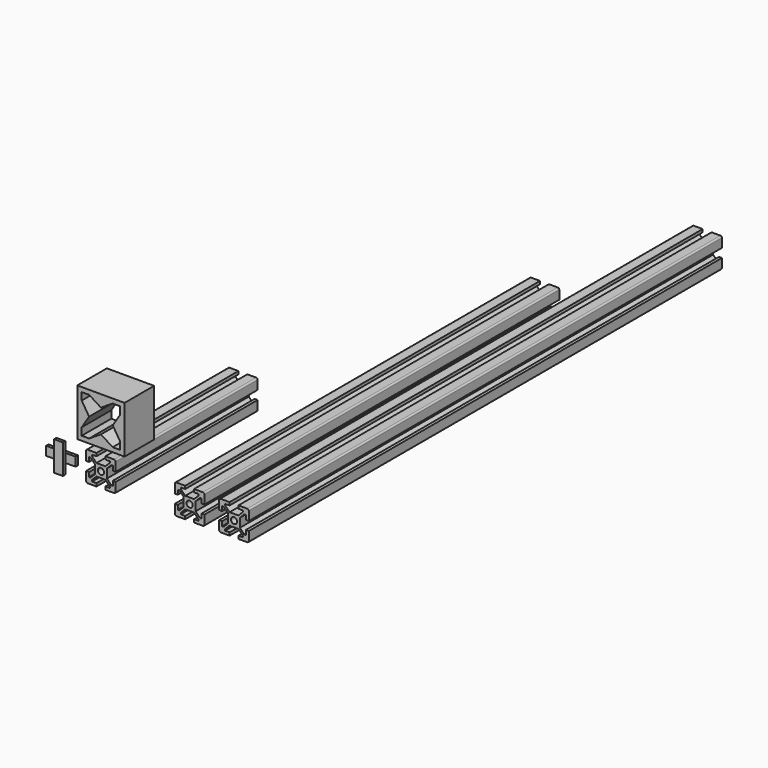
from build123d import *

# Parameters (mm, degrees)
F0_R      = 2.1
F1_DEPTH  = 120
F3_DEPTH  = 300
F4_DEPTH  = 400
F7_W      = 6
F7_H      = 7
F7_H_2    = 6
F8_DEPTH  = 2
F7_W_2    = 7
F9_DEPTH  = 2
F2_W      = 32
F2_H      = 32
F11_DEPTH = 25


with BuildPart() as f1:
    # F0 (on Front) → F1 (new body)
    with BuildSketch(Plane.XZ):
        with BuildLine():
            Line((3, 4), (0, 4))
            Line((0, 4), (-3, 4))
            Line((-3, 4), (-6, 7))
            Line((-6, 7), (-6, 8))
            Line((-6, 8), (-3, 8))
            Line((-3, 8), (-3, 10))
            Line((-3, 10), (-9, 10))
            ThreePointArc((-9, 10), (-9.7071067812, 9.7071067812), (-10, 9))
            Line((-10, 9), (-10, 3))
            Line((-10, 3), (-8, 3))
            Line((-8, 3), (-8, 6))
            Line((-8, 6), (-7, 6))
            Line((-7, 6), (-4, 3))
            Line((-4, 3), (-4, 0))
            Line((-4, 0), (-4, -3))
            Line((-4, -3), (-7, -6))
            Line((-7, -6), (-8, -6))
            Line((-8, -6), (-8, -3))
            Line((-8, -3), (-10, -3))
            Line((-10, -3), (-10, -9))
            ThreePointArc((-10, -9), (-9.7071067812, -9.7071067812), (-9, -10))
            Line((-9, -10), (-3, -10))
            Line((-3, -10), (-3, -8))
            Line((-3, -8), (-6, -8))
            Line((-6, -8), (-6, -7))
            Line((-6, -7), (-3, -4))
            Line((-3, -4), (0, -4))
            Line((0, -4), (3, -4))
            Line((3, -4), (6, -7))
            Line((6, -7), (6, -8))
            Line((6, -8), (3, -8))
            Line((3, -8), (3, -10))
            Line((3, -10), (9, -10))
            ThreePointArc((9, -10), (9.7071067812, -9.7071067812), (10, -9))
            Line((10, -9), (10, -3))
            Line((10, -3), (8, -3))
            Line((8, -3), (8, -6))
            Line((8, -6), (7, -6))
            Line((7, -6), (4, -3))
            Line((4, -3), (4, 0))
            Line((4, 0), (4, 3))
            Line((4, 3), (7, 6))
            Line((7, 6), (8, 6))
            Line((8, 6), (8, 3))
            Line((8, 3), (10, 3))
            Line((10, 3), (10, 9))
            ThreePointArc((10, 9), (9.7071067812, 9.7071067812), (9, 10))
            Line((9, 10), (3, 10))
            Line((3, 10), (3, 8))
            Line((3, 8), (6, 8))
            Line((6, 8), (6, 7))
            Line((6, 7), (3, 4))
        make_face()
        Circle(F0_R, mode=Mode.SUBTRACT)
    extrude(amount=-F1_DEPTH)


with BuildPart() as f3:
    # F0 (on Front) → F3 (new body)
    with BuildSketch(Plane.XZ):
        with BuildLine():
            Line((3, 4), (0, 4))
            Line((0, 4), (-3, 4))
            Line((-3, 4), (-6, 7))
            Line((-6, 7), (-6, 8))
            Line((-6, 8), (-3, 8))
            Line((-3, 8), (-3, 10))
            Line((-3, 10), (-9, 10))
            ThreePointArc((-9, 10), (-9.7071067812, 9.7071067812), (-10, 9))
            Line((-10, 9), (-10, 3))
            Line((-10, 3), (-8, 3))
            Line((-8, 3), (-8, 6))
            Line((-8, 6), (-7, 6))
            Line((-7, 6), (-4, 3))
            Line((-4, 3), (-4, 0))
            Line((-4, 0), (-4, -3))
            Line((-4, -3), (-7, -6))
            Line((-7, -6), (-8, -6))
            Line((-8, -6), (-8, -3))
            Line((-8, -3), (-10, -3))
            Line((-10, -3), (-10, -9))
            ThreePointArc((-10, -9), (-9.7071067812, -9.7071067812), (-9, -10))
            Line((-9, -10), (-3, -10))
            Line((-3, -10), (-3, -8))
            Line((-3, -8), (-6, -8))
            Line((-6, -8), (-6, -7))
            Line((-6, -7), (-3, -4))
            Line((-3, -4), (0, -4))
            Line((0, -4), (3, -4))
            Line((3, -4), (6, -7))
            Line((6, -7), (6, -8))
            Line((6, -8), (3, -8))
            Line((3, -8), (3, -10))
            Line((3, -10), (9, -10))
            ThreePointArc((9, -10), (9.7071067812, -9.7071067812), (10, -9))
            Line((10, -9), (10, -3))
            Line((10, -3), (8, -3))
            Line((8, -3), (8, -6))
            Line((8, -6), (7, -6))
            Line((7, -6), (4, -3))
            Line((4, -3), (4, 0))
            Line((4, 0), (4, 3))
            Line((4, 3), (7, 6))
            Line((7, 6), (8, 6))
            Line((8, 6), (8, 3))
            Line((8, 3), (10, 3))
            Line((10, 3), (10, 9))
            ThreePointArc((10, 9), (9.7071067812, 9.7071067812), (9, 10))
            Line((9, 10), (3, 10))
            Line((3, 10), (3, 8))
            Line((3, 8), (6, 8))
            Line((6, 8), (6, 7))
            Line((6, 7), (3, 4))
        make_face()
        Circle(F0_R, mode=Mode.SUBTRACT)
    extrude(amount=-F3_DEPTH)


with BuildPart() as f4:
    # F0 (on Front) → F4 (new body)
    with BuildSketch(Plane.XZ):
        with BuildLine():
            Line((3, 4), (0, 4))
            Line((0, 4), (-3, 4))
            Line((-3, 4), (-6, 7))
            Line((-6, 7), (-6, 8))
            Line((-6, 8), (-3, 8))
            Line((-3, 8), (-3, 10))
            Line((-3, 10), (-9, 10))
            ThreePointArc((-9, 10), (-9.7071067812, 9.7071067812), (-10, 9))
            Line((-10, 9), (-10, 3))
            Line((-10, 3), (-8, 3))
            Line((-8, 3), (-8, 6))
            Line((-8, 6), (-7, 6))
            Line((-7, 6), (-4, 3))
            Line((-4, 3), (-4, 0))
            Line((-4, 0), (-4, -3))
            Line((-4, -3), (-7, -6))
            Line((-7, -6), (-8, -6))
            Line((-8, -6), (-8, -3))
            Line((-8, -3), (-10, -3))
            Line((-10, -3), (-10, -9))
            ThreePointArc((-10, -9), (-9.7071067812, -9.7071067812), (-9, -10))
            Line((-9, -10), (-3, -10))
            Line((-3, -10), (-3, -8))
            Line((-3, -8), (-6, -8))
            Line((-6, -8), (-6, -7))
            Line((-6, -7), (-3, -4))
            Line((-3, -4), (0, -4))
            Line((0, -4), (3, -4))
            Line((3, -4), (6, -7))
            Line((6, -7), (6, -8))
            Line((6, -8), (3, -8))
            Line((3, -8), (3, -10))
            Line((3, -10), (9, -10))
            ThreePointArc((9, -10), (9.7071067812, -9.7071067812), (10, -9))
            Line((10, -9), (10, -3))
            Line((10, -3), (8, -3))
            Line((8, -3), (8, -6))
            Line((8, -6), (7, -6))
            Line((7, -6), (4, -3))
            Line((4, -3), (4, 0))
            Line((4, 0), (4, 3))
            Line((4, 3), (7, 6))
            Line((7, 6), (8, 6))
            Line((8, 6), (8, 3))
            Line((8, 3), (10, 3))
            Line((10, 3), (10, 9))
            ThreePointArc((10, 9), (9.7071067812, 9.7071067812), (9, 10))
            Line((9, 10), (3, 10))
            Line((3, 10), (3, 8))
            Line((3, 8), (6, 8))
            Line((6, 8), (6, 7))
            Line((6, 7), (3, 4))
        make_face()
        Circle(F0_R, mode=Mode.SUBTRACT)
    extrude(amount=-F4_DEPTH)


with BuildPart() as f3_1:
    # F5: moved
    add(f3.part.moved(Location((60, 0, 0))))


with BuildPart() as f4_1:
    # F6: moved
    add(f4.part.moved(Location((90, 0, 0))))


with BuildPart() as f8:
    # F7 (on Front) → F8 (new body)
    with BuildSketch(Plane.XZ):
        with Locations((-27.0909902719, 6.7005123533)):
            Rectangle(F7_W, F7_H)
        with Locations((-27.0909902719, 0.2005123533)):
            Rectangle(F7_W, F7_H_2)
        with Locations((-27.0909902719, -6.2994876467)):
            Rectangle(F7_W, F7_H)
    extrude(amount=F8_DEPTH)

    # F7 (on Front) → F9 (join)
    with BuildSketch(Plane.XZ):
        with Locations((-33.5909902719, 0.2005123533)):
            Rectangle(F7_W_2, F7_H_2)
        with Locations((-27.0909902719, 0.2005123533)):
            Rectangle(F7_W, F7_H_2)
        with Locations((-20.5909902719, 0.2005123533)):
            Rectangle(F7_W_2, F7_H_2)
    extrude(amount=-F9_DEPTH)


with BuildPart() as f11:
    # F2 (on face) → F11 (new body)
    with BuildSketch(Plane.XZ):
        Rectangle(F2_W, F2_H)
        Polygon((7.9704466489, 13), (13, 13), (13, 7.9704466489), (10, 3.1881786596), (10, 3), (9.8819522494, 3), (8, 0), (9.8819522494, -3), (10, -3), (10, -3.1881786596), (13, -7.9704466489), (13, -13), (7.9704466489, -13), (3.1881786596, -10), (3, -10), (3, -9.8819522494), (0, -8), (-3, -9.8819522494), (-3, -10), (-3.1881786596, -10), (-7.9704466489, -13), (-13, -13), (-13, -7.9704466489), (-10, -3.1881786596), (-10, -3), (-9.8819522494, -3), (-8, 0), (-9.8819522494, 3), (-10, 3), (-10, 3.1881786596), (-13, 7.9704466489), (-13, 13), (-7.9704466489, 13), (-3.1881786596, 10), (-3, 10), (-3, 9.8819522494), (0, 8), (3, 9.8819522494), (3, 10), (3.1881786596, 10), align=None, mode=Mode.SUBTRACT)
        Rectangle(F2_W, F2_H)
        Polygon((7.9704466489, 13), (13, 13), (13, 7.9704466489), (8, 0), (13, -7.9704466489), (13, -13), (7.9704466489, -13), (0, -8), (-7.9704466489, -13), (-13, -13), (-13, -7.9704466489), (-8, 0), (-13, 7.9704466489), (-13, 13), (-7.9704466489, 13), (0, 8), align=None, mode=Mode.SUBTRACT)
    extrude(amount=-F11_DEPTH)


with BuildPart() as f11_1:
    # F12: moved
    add(f11.part.moved(Location((0, 0, 30))))


solid = Compound([f1.part, f3_1.part, f4_1.part, f8.part, f11_1.part])
